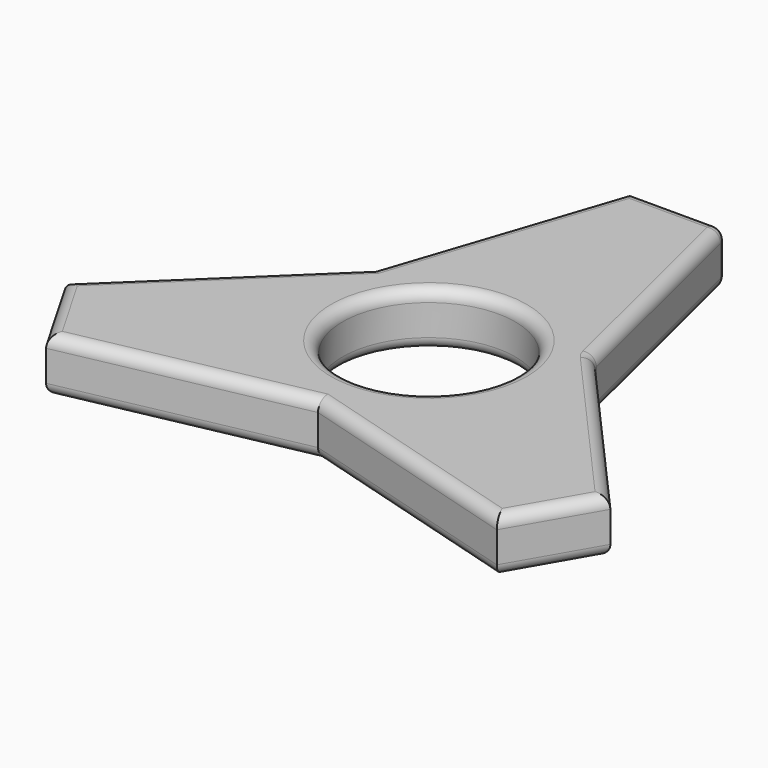
from build123d import *

# Parameters (mm, degrees)
F0_R     = 11.2
F1_DEPTH = 7
F2_R     = 1.5


with BuildPart() as f1:
    # F0 (on Top) → F1 (new body)
    with BuildSketch(Plane.XY):
        Polygon((-4.691563, 38.529854), (-14.480257, 9.15993), (-37.200133, -12.627188), (-31.022051, -23.32794), (-0.692603, -17.120235), (29.535532, -25.902666), (35.713614, -15.201914), (15.17286, 7.960306), (7.664601, 38.529854), align=None)
        Circle(F0_R, mode=Mode.SUBTRACT)
    extrude(amount=F1_DEPTH)

    # F2
    f2_edges = [f1.edges().sort_by_distance(p)[0] for p in [
        (-9.58591, 23.844892, 7),
        (-25.840195, -1.733629, 7),
        (-34.111092, -17.977564, 7),
        (14.421464, -21.511451, 7),
        (32.624573, -20.55229, 7),
        (25.443237, -3.620804, 7),
        (11.418731, 23.24508, 7),
        (1.486519, 38.529854, 7),
        (-15.857327, -20.224088, 7),
        (-11.2, 0, 7),
        (15.17286, 7.960306, 3.5),
        (7.664601, 38.529854, 3.5),
        (11.418731, 23.24508, 0),
        (14.421464, -21.511451, 0),
        (32.624573, -20.55229, 0),
        (25.443237, -3.620804, 0),
        (1.486519, 38.529854, 0),
        (-9.58591, 23.844892, 0),
        (-25.840195, -1.733629, 0),
        (-34.111092, -17.977564, 0),
        (-15.857327, -20.224088, 0),
        (-11.2, 0, 0),
    ]]
    fillet(f2_edges, radius=F2_R)


solid = f1.part
